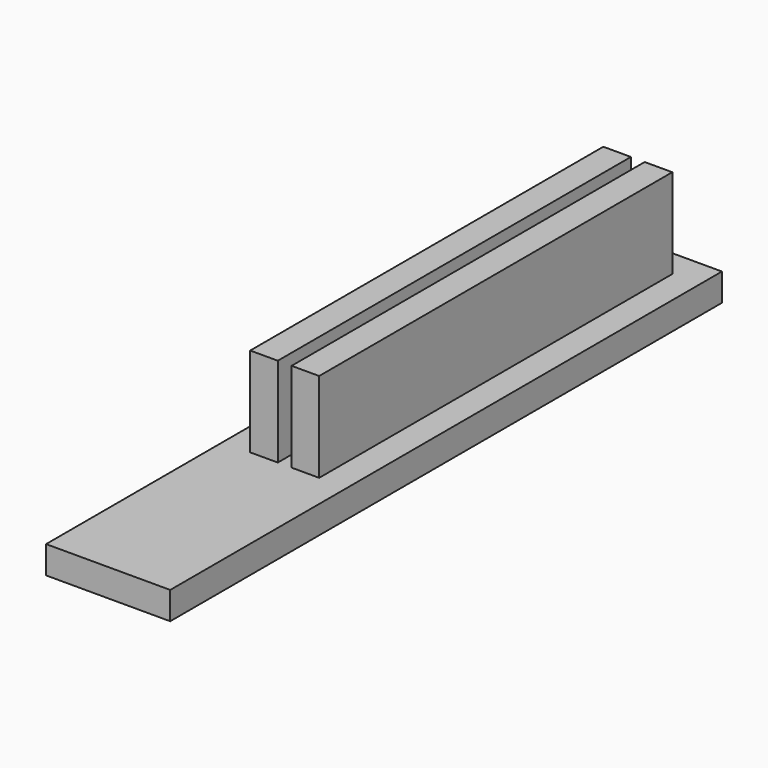
from build123d import *

# Parameters (mm, degrees)
F0_W      = 57.15
F0_H      = 317.5
F0_W_2    = 12.7
F0_H_2    = 203.2
F0_W_3    = 1.5875
F0_W_4    = 3.175
F1_DEPTH  = 12.7
F2_DEPTH  = 9.525
F2_FACE_W = 12.7
F2_FACE_H = 203.2
F3_DEPTH  = 50.8


with BuildPart() as f1:
    # F0 (on Top) → F1 (new body)
    with BuildSketch(Plane.XY):
        with Locations((-28.575, 158.75)):
            Rectangle(F0_W, F0_H)
        Polygon((-31.75, 101.6), (-44.45, 101.6), (-44.45, 304.8), (-31.75, 304.8), (-30.1625, 304.8), (-26.9875, 304.8), (-25.4, 304.8), (-12.7, 304.8), (-12.7, 101.6), (-25.4, 101.6), (-26.9875, 101.6), (-30.1625, 101.6), align=None, mode=Mode.SUBTRACT)
        with Locations((-19.05, 203.2)):
            Rectangle(F0_W_2, F0_H_2)
        with Locations((-30.95625, 203.2)):
            Rectangle(F0_W_3, F0_H_2)
        with Locations((-38.1, 203.2)):
            Rectangle(F0_W_2, F0_H_2)
        with Locations((-28.575, 203.2)):
            Rectangle(F0_W_4, F0_H_2)
        with Locations((-26.19375, 203.2)):
            Rectangle(F0_W_3, F0_H_2)
    extrude(amount=-F1_DEPTH)

    # F0 (on Top) → F2 (cut)
    with BuildSketch(Plane.XY):
        with Locations((-38.1, 203.2)):
            Rectangle(F0_W_2, F0_H_2)
        with Locations((-19.05, 203.2)):
            Rectangle(F0_W_2, F0_H_2)
    extrude(amount=-F2_DEPTH, mode=Mode.SUBTRACT)


with BuildPart() as f3:
    # F2_face (on face) → F3 (new body)
    with BuildSketch(Plane(origin=(-38.1, 203.2, -9.525), x_dir=(1, 0, 0), z_dir=(0, 0, 1))):
        Rectangle(F2_FACE_W, F2_FACE_H)
        with Locations((19.05, 0)):
            Rectangle(F2_FACE_W, F2_FACE_H)
    extrude(amount=F3_DEPTH)


solid = Compound([f1.part, f3.part])
